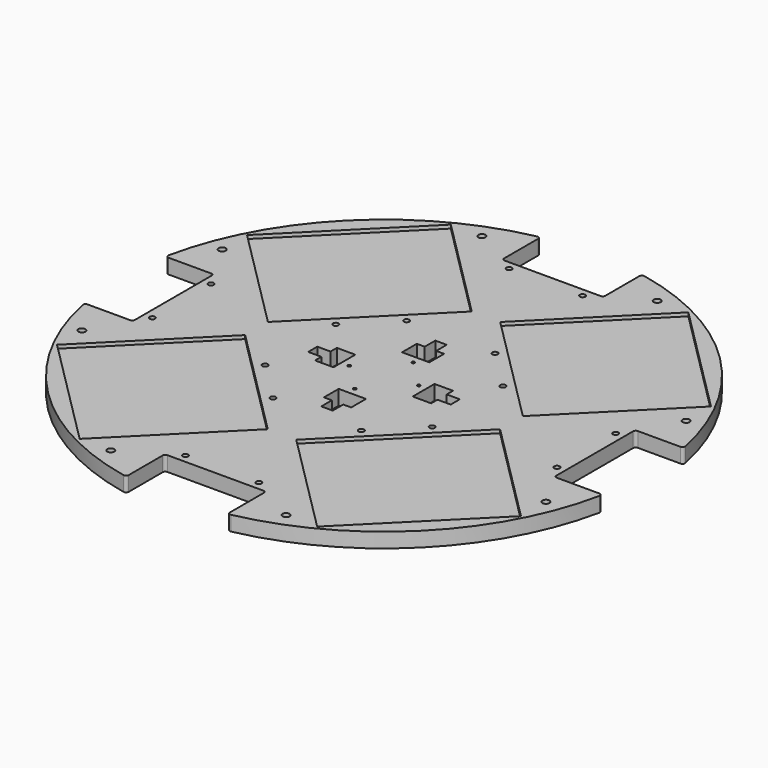
from build123d import *

# Parameters (mm, degrees)
F0_R     = 3.1
F0_R_2   = 1.75
F1_DEPTH = 16.8
F3_DEPTH = 4
F4_R     = 4
F5_DEPTH = 25
F6_R     = 3


with BuildPart() as f1:
    # F0 (on Top) → F1 (new body)
    with BuildSketch(Plane.XY):
        with BuildLine():
            Line((239.499999, 57.5), (294.438024, 57.5))
            ThreePointArc((294.438024, 57.5), (212.132034, 212.132034), (57.5, 294.438024))
            Line((57.5, 294.438024), (57.5, 239.499999))
            Line((57.5, 239.499999), (-57.5, 239.499999))
            Line((-57.5, 239.499999), (-57.5, 294.438024))
            ThreePointArc((-57.5, 294.438024), (-212.132034, 212.132034), (-294.438024, 57.5))
            Line((-294.438024, 57.5), (-239.499999, 57.5))
            Line((-239.499999, 57.5), (-239.499999, -57.5))
            Line((-239.499999, -57.5), (-294.438024, -57.5))
            ThreePointArc((-294.438024, -57.5), (-212.132034, -212.132034), (-57.5, -294.438024))
            Line((-57.5, -294.438024), (-57.5, -239.499999))
            Line((-57.5, -239.499999), (57.5, -239.499999))
            Line((57.5, -239.499999), (57.5, -294.438024))
            ThreePointArc((57.5, -294.438024), (212.132034, -212.132034), (294.438024, -57.5))
            Line((294.438024, -57.5), (239.499999, -57.5))
            Line((239.499999, -57.5), (239.499999, 57.5))
        make_face()
        with Locations((-41.7, -229.949999)):
            Circle(F0_R, mode=Mode.SUBTRACT)
        with Locations((-229.949999, -41.7)):
            Circle(F0_R, mode=Mode.SUBTRACT)
        with Locations((-50.2, -94.949999)):
            Circle(F0_R, mode=Mode.SUBTRACT)
        with Locations((-94.949999, -50.2)):
            Circle(F0_R, mode=Mode.SUBTRACT)
        with Locations((-4.47245, -35.938702)):
            Circle(F0_R_2, mode=Mode.SUBTRACT)
        with Locations((-35.938702, -4.47245)):
            Circle(F0_R_2, mode=Mode.SUBTRACT)
        with Locations((41.7, -229.949999)):
            Circle(F0_R, mode=Mode.SUBTRACT)
        with Locations((50.2, -94.949999)):
            Circle(F0_R, mode=Mode.SUBTRACT)
        Polygon((-15.5, -66), (-15.5, -45), (15.5, -45), (15.5, -66), (6.5, -66), (6.5, -81), (-6.5, -81), (-6.5, -66), align=None, mode=Mode.SUBTRACT)
        with Locations((94.949999, -50.2)):
            Circle(F0_R, mode=Mode.SUBTRACT)
        with Locations((229.949999, -41.7)):
            Circle(F0_R, mode=Mode.SUBTRACT)
        with Locations((-229.949999, 41.7)):
            Circle(F0_R, mode=Mode.SUBTRACT)
        with Locations((-94.949999, 50.2)):
            Circle(F0_R, mode=Mode.SUBTRACT)
        Polygon((-45, 15.5), (-45, -15.5), (-66, -15.5), (-66, -6.5), (-81, -6.5), (-81, 6.5), (-66, 6.5), (-66, 15.5), align=None, mode=Mode.SUBTRACT)
        with Locations((-50.2, 94.949999)):
            Circle(F0_R, mode=Mode.SUBTRACT)
        with Locations((-41.7, 229.949999)):
            Circle(F0_R, mode=Mode.SUBTRACT)
        with Locations((35.938702, 4.47245)):
            Circle(F0_R_2, mode=Mode.SUBTRACT)
        with Locations((4.47245, 35.938702)):
            Circle(F0_R_2, mode=Mode.SUBTRACT)
        Polygon((66, -15.5), (45, -15.5), (45, 15.5), (66, 15.5), (66, 6.5), (81, 6.5), (81, -6.5), (66, -6.5), align=None, mode=Mode.SUBTRACT)
        Polygon((15.5, 66), (15.5, 45), (-15.5, 45), (-15.5, 66), (-6.5, 66), (-6.5, 81), (6.5, 81), (6.5, 66), align=None, mode=Mode.SUBTRACT)
        with Locations((94.949999, 50.2)):
            Circle(F0_R, mode=Mode.SUBTRACT)
        with Locations((50.2, 94.949999)):
            Circle(F0_R, mode=Mode.SUBTRACT)
        with Locations((229.949999, 41.7)):
            Circle(F0_R, mode=Mode.SUBTRACT)
        with Locations((41.7, 229.949999)):
            Circle(F0_R, mode=Mode.SUBTRACT)
    extrude(amount=F1_DEPTH)

    # F2 (on face) → F3 (cut)
    with BuildSketch(Plane.XY.offset(16.8)):
        Polygon((-144.86168, -16.168246), (-263.65562, -134.962185), (-134.962185, -263.65562), (-16.168246, -144.86168), align=None)
        Polygon((144.86168, -16.168246), (16.168246, -144.86168), (134.962185, -263.65562), (263.65562, -134.962185), align=None)
        Polygon((16.168246, 144.86168), (144.86168, 16.168246), (263.65562, 134.962185), (134.962185, 263.65562), align=None)
        Polygon((-144.86168, 16.168246), (-16.168246, 144.86168), (-134.962185, 263.65562), (-263.65562, 134.962185), align=None)
    extrude(amount=-F3_DEPTH, mode=Mode.SUBTRACT)

    # F4 (on face) → F5 (cut)
    with BuildSketch(Plane.XY.offset(16.8)):
        with Locations((-263.65562, -99.606846)):
            Circle(F4_R)
        with Locations((-99.606846, -263.65562)):
            Circle(F4_R)
        with Locations((99.606846, -263.65562)):
            Circle(F4_R)
        with Locations((263.65562, -99.606846)):
            Circle(F4_R)
        with Locations((263.65562, 99.606846)):
            Circle(F4_R)
        with Locations((99.606846, 263.65562)):
            Circle(F4_R)
        with Locations((-99.606846, 263.65562)):
            Circle(F4_R)
        with Locations((-263.65562, 99.606846)):
            Circle(F4_R)
    extrude(amount=-F5_DEPTH, mode=Mode.SUBTRACT)

    # F6
    f6_edges = [f1.edges().sort_by_distance(p)[0] for p in [
        (57.5, -239.499999, 8.4),
        (57.5, -294.438024, 8.4),
        (-57.5, -239.499999, 8.4),
        (-57.5, -294.438024, 8.4),
        (-294.438024, 57.5, 8.4),
        (-239.499999, 57.5, 8.4),
        (-239.499999, -57.5, 8.4),
        (-294.438024, -57.5, 8.4),
        (57.5, 239.499999, 8.4),
        (294.438024, -57.5, 8.4),
        (57.5, 294.438024, 8.4),
        (-57.5, 239.499999, 8.4),
        (-57.5, 294.438024, 8.4),
        (239.499999, -57.5, 8.4),
        (239.499999, 57.5, 8.4),
        (294.438024, 57.5, 8.4),
    ]]
    fillet(f6_edges, radius=F6_R)


solid = f1.part
